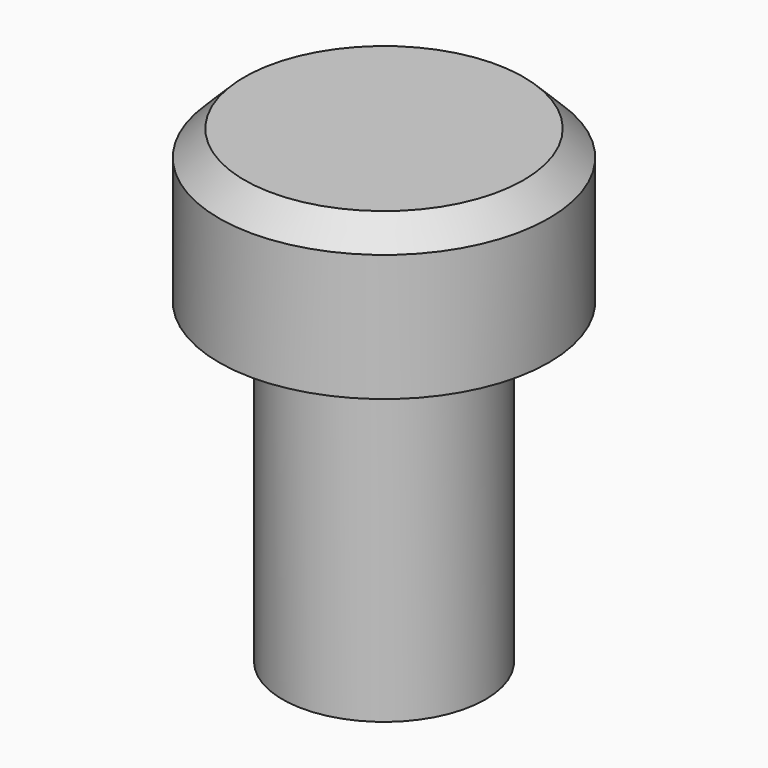
from build123d import *

# Parameters (mm, degrees)
SKETCH063_R     = 6.5
PAD036_DEPTH    = 6
CHAMFER002_SIZE = 1
SKETCH066_R     = 4
PAD038_DEPTH    = 12.5
POCKET030_DEPTH = 7


with BuildPart() as part:
    # Sketch063 → Pad036 (new body)
    with BuildSketch(Plane(origin=(0, 0, 30), x_dir=(1, 0, 0), z_dir=(0, 0, -1))):
        with Locations((14.5, -4)):
            Circle(SKETCH063_R)
    extrude(amount=-PAD036_DEPTH)

    # Chamfer002
    chamfer002_edges = [part.edges().sort_by_distance(p)[0] for p in [
        (8, 4, 36),
    ]]
    chamfer(chamfer002_edges, length=CHAMFER002_SIZE)

    # Sketch066 (on Face3 of Chamfer002) → Pad038 (join)
    with BuildSketch(Plane(origin=(0, 0, 30), x_dir=(1, 0, 0), z_dir=(0, 0, -1))):
        with Locations((14.5, -4)):
            Circle(SKETCH066_R)
    extrude(amount=PAD038_DEPTH)

    # Sketch067 (on Face5 of Pad038) → Pocket030 (cut)
    with BuildSketch(Plane(origin=(0, 0, 17.5), x_dir=(1, 0, 0), z_dir=(0, 0, -1))):
        with BuildLine():
            ThreePointArc((11.5, -2.602698), (14.5, -7.263055), (17.5, -2.602698))
            Line((14.5, -2.602698), (17.5, -2.602698))
            Line((14.5, -2.602698), (11.5, -2.602698))
        make_face()
    extrude(amount=-POCKET030_DEPTH, mode=Mode.SUBTRACT)


with BuildPart() as part_1:
    # Body005 placement: moved
    add(part.part.moved(Location((0, 2, 2.5))))


solid = part_1.part
